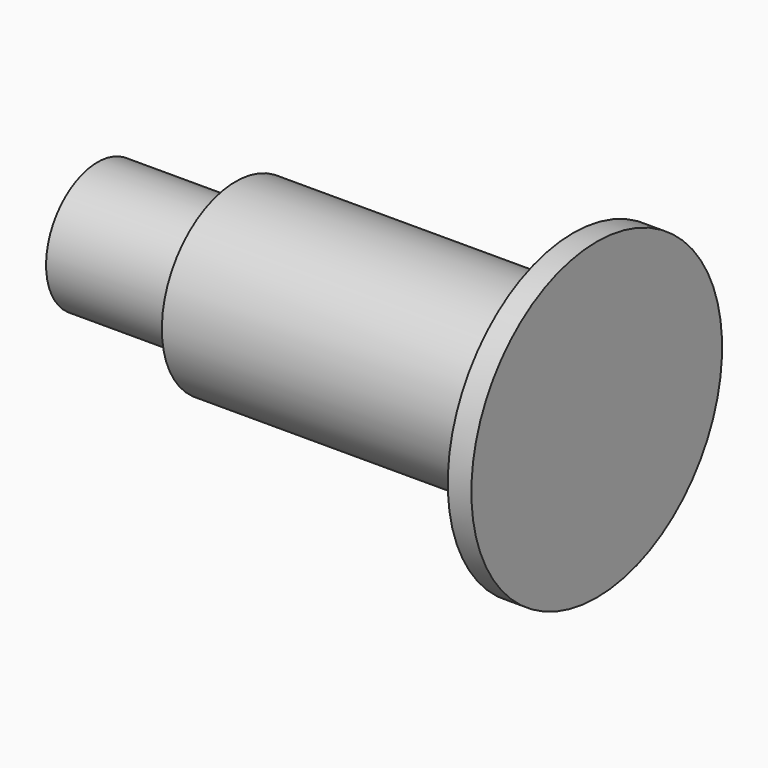
from build123d import *

# Parameters (mm, degrees)
F0_W     = 3.4339645326
F0_H     = 8.1196713525
F0_W_2   = 98.1660354674
F2_DEPTH = 138.3517


with BuildPart() as f1:
    # F0 (on Front) → F1 (revolve)
    with BuildSketch(Plane.XZ):
        Polygon((47.3660354674, 22.796144709), (47.3660354674, 4.0598356762), (50.8, 4.0598356762), (50.8, -4.0598356762), (47.3660354674, -4.0598356762), (47.3660354674, -22.796144709), (54.2339645326, -22.796144709), (54.2339645326, 22.796144709), align=None)
        with Locations((49.0830177337, 0)):
            Rectangle(F0_W, F0_H)
        with Locations((-1.7169822663, 0)):
            Rectangle(F0_W_2, F0_H)
    revolve(axis=Axis((50.8, 0, 22.796144709), (-1, 0, 0)))

    # F2 (add): a face of the model
    f2_faces = [f1.faces().sort_by_distance(p)[0] for p in [
        (47.3660354674, 0, 22.796144709),
    ]]
    extrude(f2_faces, amount=F2_DEPTH)


solid = f1.part
